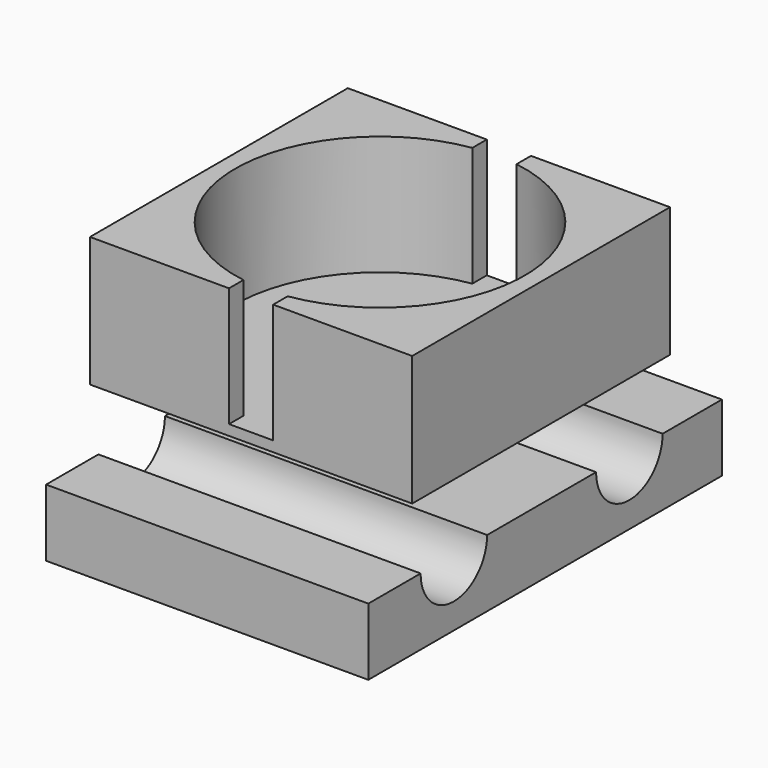
from build123d import *

# Parameters (mm, degrees)
F0_W          = 62
F0_H          = 62
F1_DEPTH      = 12.5
F2_R          = 27.85
F3_DEPTH      = 23
F4_W          = 8.5
F4_H          = 23
F5_DEPTH      = 72.3
F7_DEPTH      = 31
F7_DEPTH_BACK = 31


with BuildPart() as f1:
    # F0 (on Top) → F1 (new body, symmetric)
    with BuildSketch(Plane.XY):
        Rectangle(F0_W, F0_H)
    extrude(amount=F1_DEPTH, both=True)

    # F2 (on face) → F3 (cut)
    with BuildSketch(Plane.XY.offset(12.5)):
        Circle(F2_R)
    extrude(amount=-F3_DEPTH, mode=Mode.SUBTRACT)

    # F4 (on face) → F5 (cut)
    with BuildSketch(Plane.XZ.offset(31)):
        with Locations((0, 1)):
            Rectangle(F4_W, F4_H)
    extrude(amount=-F5_DEPTH, mode=Mode.SUBTRACT)


with BuildPart() as f7:
    # F6 (on Right) → F7 (new body, two sides)
    with BuildSketch(Plane.YZ) as f7_sk:
        with BuildLine():
            Line((-28.979556, -25.152567), (-41.55941, -25.152567))
            Line((-41.55941, -25.152567), (-41.55941, -38.063945))
            Line((-41.55941, -38.063945), (43.488914, -38.063945))
            Line((43.488914, -38.063945), (43.488914, -25.152567))
            Line((43.488914, -25.152567), (29.225893, -25.152567))
            ThreePointArc((29.225893, -25.152567), (21.225893, -33.152567), (13.225893, -25.152567))
            Line((13.225893, -25.152567), (-12.979556, -25.152567))
            ThreePointArc((-12.979556, -25.152567), (-20.979556, -33.152567), (-28.979556, -25.152567))
        make_face()
    extrude(amount=F7_DEPTH)
    extrude(f7_sk.sketch, amount=-F7_DEPTH_BACK)


solid = Compound([f1.part, f7.part])
